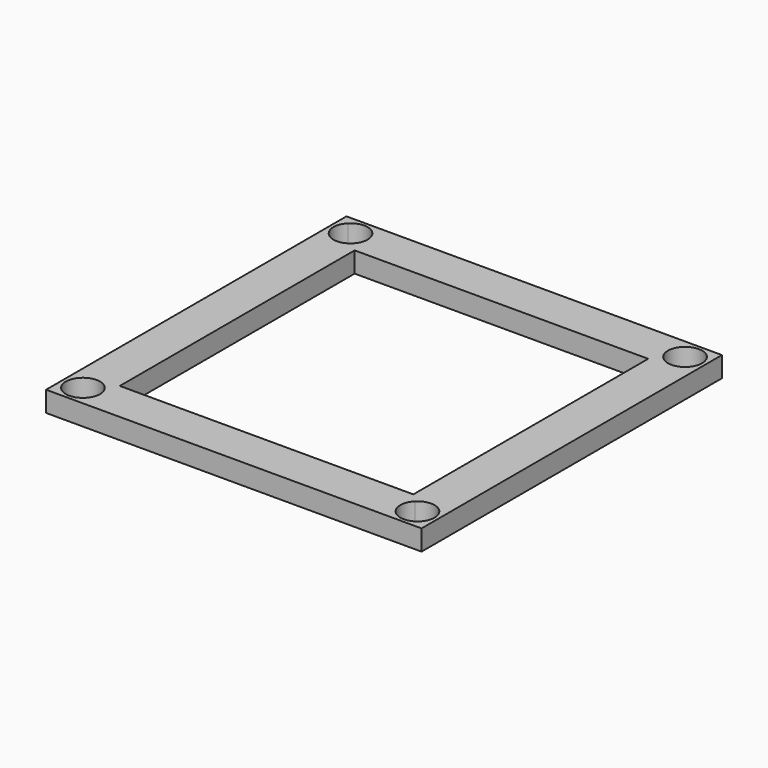
from build123d import *

# Parameters (mm, degrees)
F1_DEPTH = 3


with BuildPart() as f1:
    # F0 (on Top) → F1 (new body)
    with BuildSketch(Plane.XY):
        with BuildLine():
            Line((-26.267767, 26.267767), (-27.5, 27.5))
            Line((-27.5, 27.5), (-27.5, -27.5))
            Line((-27.5, -27.5), (-26.267767, -26.267767))
            ThreePointArc((-26.267767, -26.267767), (-26.267767, -22.732233), (-22.732233, -22.732233))
            Line((-22.732233, -22.732233), (-21.5, -21.5))
            Line((-21.5, -21.5), (-21.5, 21.5))
            Line((-21.5, 21.5), (-22.732233, 22.732233))
            ThreePointArc((-22.732233, 22.732233), (-26.267767, 22.732233), (-26.267767, 26.267767))
        make_face()
        with BuildLine():
            Line((-27.5, -27.5), (27.5, -27.5))
            Line((27.5, -27.5), (26.267767, -26.267767))
            ThreePointArc((26.267767, -26.267767), (22.732233, -26.267767), (22.732233, -22.732233))
            Line((22.732233, -22.732233), (21.5, -21.5))
            Line((21.5, -21.5), (-21.5, -21.5))
            Line((-21.5, -21.5), (-22.732233, -22.732233))
            ThreePointArc((-22.732233, -22.732233), (-22.190301, -23.543291), (-22, -24.5))
            ThreePointArc((-22, -24.5), (-23.543291, -26.809699), (-26.267767, -26.267767))
            Line((-26.267767, -26.267767), (-27.5, -27.5))
        make_face()
        with BuildLine():
            Line((27.5, -27.5), (27.5, 27.5))
            Line((27.5, 27.5), (26.267767, 26.267767))
            ThreePointArc((26.267767, 26.267767), (26.809699, 25.456709), (27, 24.5))
            ThreePointArc((27, 24.5), (25.456709, 22.190301), (22.732233, 22.732233))
            Line((22.732233, 22.732233), (21.5, 21.5))
            Line((21.5, 21.5), (21.5, -21.5))
            Line((21.5, -21.5), (22.732233, -22.732233))
            ThreePointArc((22.732233, -22.732233), (25.456709, -22.190301), (27, -24.5))
            ThreePointArc((27, -24.5), (26.809699, -25.456709), (26.267767, -26.267767))
            Line((26.267767, -26.267767), (27.5, -27.5))
        make_face()
        with BuildLine():
            Line((26.267767, 26.267767), (27.5, 27.5))
            Line((27.5, 27.5), (-27.5, 27.5))
            Line((-27.5, 27.5), (-26.267767, 26.267767))
            ThreePointArc((-26.267767, 26.267767), (-23.543291, 26.809699), (-22, 24.5))
            ThreePointArc((-22, 24.5), (-22.190301, 23.543291), (-22.732233, 22.732233))
            Line((-22.732233, 22.732233), (-21.5, 21.5))
            Line((-21.5, 21.5), (21.5, 21.5))
            Line((21.5, 21.5), (22.732233, 22.732233))
            ThreePointArc((22.732233, 22.732233), (22.732233, 26.267767), (26.267767, 26.267767))
        make_face()
    extrude(amount=F1_DEPTH)


solid = f1.part
